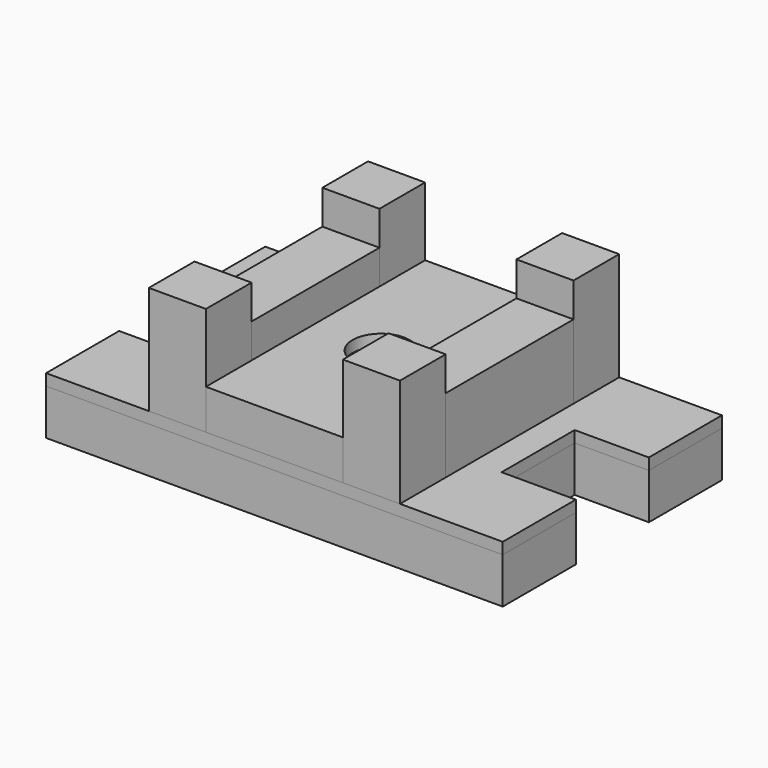
from build123d import *

# Parameters (mm, degrees)
F0_W     = 31.75
F0_H     = 31.75
F2_DEPTH = 92.075
F1_R     = 15.875
F3_DEPTH = 53.975
F0_R     = 15.875
F4_DEPTH = 31.75
F5_DEPTH = 25.4
F0_H_2   = 88.9
F6_DEPTH = 73.025
F7_DEPTH = 47.625
F8_DEPTH = 31.75


with BuildPart() as f2:
    # F0 (on Top) → F2 (new body)
    with BuildSketch(Plane.XY):
        with Locations((-55.9267913461, -58.2929519415)):
            Rectangle(F0_W, F0_H)
    extrude(amount=F2_DEPTH)


with BuildPart() as f2b:
    # F0 (on Top) → F2, piece 2 (new body)
    with BuildSketch(Plane.XY):
        with Locations((52.0232086539, 62.3570480585)):
            Rectangle(F0_W, F0_H)
    extrude(amount=F2_DEPTH)


with BuildPart() as f2c:
    # F0 (on Top) → F2, piece 3 (new body)
    with BuildSketch(Plane.XY):
        with Locations((52.0232086539, -58.2929519415)):
            Rectangle(F0_W, F0_H)
    extrude(amount=F2_DEPTH)


with BuildPart() as f2d:
    # F0 (on Top) → F2, piece 4 (new body)
    with BuildSketch(Plane.XY):
        with Locations((-55.9267913461, 62.3570480585)):
            Rectangle(F0_W, F0_H)
    extrude(amount=F2_DEPTH)


with BuildPart() as f3:
    # F1 (on face) → F3 (new body)
    with BuildSketch(Plane.XY):
        Polygon((36.1482086539, 78.2320480585), (-1.9517913461, 78.2320480585), (-40.0517913461, 78.2320480585), (-40.0517913461, 46.4820480585), (-40.0517913461, -42.4179519415), (-40.0517913461, -74.1679519415), (-1.9517913461, -74.1679519415), (36.1482086539, -74.1679519415), (36.1482086539, -42.4179519415), (36.1482086539, 0), (36.1482086539, 46.4820480585), align=None)
        with Locations((-1.9517913461, 0)):
            Circle(F1_R, mode=Mode.SUBTRACT)
    extrude(amount=F3_DEPTH)


with BuildPart() as f4:
    # F0 (on Top) → F4 (new body)
    with BuildSketch(Plane.XY):
        Polygon((-71.8017913461, 78.2320480585), (-128.9517913461, 78.2320480585), (-128.9517913461, 27.4320480585), (-87.6767913461, 27.4320480585), (-87.6767913461, -23.3679519415), (-128.9517913461, -23.3679519415), (-128.9517913461, -74.1679519415), (-71.8017913461, -74.1679519415), (-71.8017913461, -42.4179519415), (-71.8017913461, 46.4820480585), align=None)
        with Locations((-55.9267913461, 62.3570480585)):
            Rectangle(F0_W, F0_H)
        Polygon((-1.9517913461, 78.2320480585), (-40.0517913461, 78.2320480585), (-40.0517913461, 46.4820480585), (-40.0517913461, -42.4179519415), (-40.0517913461, -74.1679519415), (-1.9517913461, -74.1679519415), (36.1482086539, -74.1679519415), (36.1482086539, -42.4179519415), (36.1482086539, 0), (36.1482086539, 46.4820480585), (36.1482086539, 78.2320480585), align=None)
        with Locations((-1.9517913461, 0)):
            Circle(F0_R, mode=Mode.SUBTRACT)
        with Locations((-55.9267913461, -58.2929519415)):
            Rectangle(F0_W, F0_H)
        with Locations((52.0232086539, 62.3570480585)):
            Rectangle(F0_W, F0_H)
        Polygon((125.0482086539, 78.2320480585), (67.8982086539, 78.2320480585), (67.8982086539, 46.4820480585), (67.8982086539, -42.4179519415), (67.8982086539, -74.1679519415), (125.0482086539, -74.1679519415), (125.0482086539, -23.3679519415), (83.7732086539, -23.3679519415), (83.7732086539, 27.4320480585), (125.0482086539, 27.4320480585), align=None)
        with Locations((52.0232086539, -58.2929519415)):
            Rectangle(F0_W, F0_H)
    extrude(amount=F4_DEPTH)


with BuildPart() as f5:
    # F0 (on Top) → F5 (new body)
    with BuildSketch(Plane.XY):
        Polygon((-71.8017913461, 78.2320480585), (-128.9517913461, 78.2320480585), (-128.9517913461, 27.4320480585), (-87.6767913461, 27.4320480585), (-87.6767913461, -23.3679519415), (-128.9517913461, -23.3679519415), (-128.9517913461, -74.1679519415), (-71.8017913461, -74.1679519415), (-71.8017913461, -42.4179519415), (-71.8017913461, 46.4820480585), align=None)
        with Locations((-55.9267913461, 62.3570480585)):
            Rectangle(F0_W, F0_H)
        Polygon((-1.9517913461, 78.2320480585), (-40.0517913461, 78.2320480585), (-40.0517913461, 46.4820480585), (-40.0517913461, -42.4179519415), (-40.0517913461, -74.1679519415), (-1.9517913461, -74.1679519415), (36.1482086539, -74.1679519415), (36.1482086539, -42.4179519415), (36.1482086539, 0), (36.1482086539, 46.4820480585), (36.1482086539, 78.2320480585), align=None)
        with Locations((-1.9517913461, 0)):
            Circle(F0_R, mode=Mode.SUBTRACT)
        with Locations((-55.9267913461, -58.2929519415)):
            Rectangle(F0_W, F0_H)
        with Locations((52.0232086539, 62.3570480585)):
            Rectangle(F0_W, F0_H)
        Polygon((125.0482086539, 78.2320480585), (67.8982086539, 78.2320480585), (67.8982086539, 46.4820480585), (67.8982086539, -42.4179519415), (67.8982086539, -74.1679519415), (125.0482086539, -74.1679519415), (125.0482086539, -23.3679519415), (83.7732086539, -23.3679519415), (83.7732086539, 27.4320480585), (125.0482086539, 27.4320480585), align=None)
        with Locations((52.0232086539, -58.2929519415)):
            Rectangle(F0_W, F0_H)
    extrude(amount=F5_DEPTH)


with BuildPart() as f6:
    # F0 (on Top) → F6 (new body)
    with BuildSketch(Plane.XY):
        with Locations((-55.9267913461, 2.0320480585)):
            Rectangle(F0_W, F0_H_2)
    extrude(amount=F6_DEPTH)


with BuildPart() as f6b:
    # F0 (on Top) → F6, piece 2 (new body)
    with BuildSketch(Plane.XY):
        Polygon((67.8982086539, 46.4820480585), (36.1482086539, 46.4820480585), (36.1482086539, 0), (36.1482086539, -42.4179519415), (67.8982086539, -42.4179519415), align=None)
    extrude(amount=F6_DEPTH)


with BuildPart() as f7:
    # F0 (on Top) → F7 (new body)
    with BuildSketch(Plane.XY):
        with Locations((-1.9517913461, 0)):
            Circle(F0_R)
    extrude(amount=F7_DEPTH)


with BuildPart() as f8:
    # F8 (new): a face of the model
    f8_faces = [f7.part.faces().sort_by_distance(p)[0] for p in [
        (-1.9517913461, 0, 47.625),
    ]]
    extrude(f8_faces, amount=-F8_DEPTH)


solid = Compound([f2.part, f2b.part, f2c.part, f2d.part, f3.part, f4.part, f5.part, f6.part, f6b.part, f7.part, f8.part])
